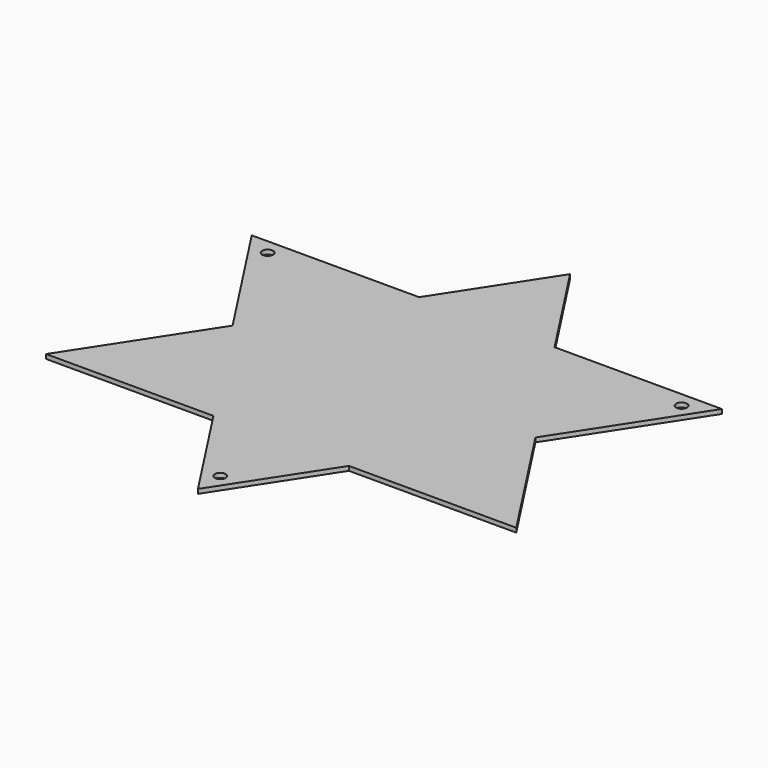
from build123d import *

# Parameters (mm, degrees)
F0_R     = 2.5
F1_DEPTH = 2


with BuildPart() as f1:
    # F0 (on Top) → F1 (new body)
    with BuildSketch(Plane.XY):
        Polygon((31.0892123008, 43.3596958699), (-31.0892123008, 43.3596958699), (-69.496261684, -15.6403041301), (-31.0892123008, -74.6403041301), (31.0892123008, -74.6403041301), (69.496261684, -15.6403041301), align=None)
        Polygon((-69.496261684, -15.6403041301), (-31.0892123008, 43.3596958699), (-107.9033110673, 43.3596958699), align=None)
        with Locations((-94.9940494668, 36.3596958699)):
            Circle(F0_R, mode=Mode.SUBTRACT)
        Polygon((107.9033110673, 43.3596958699), (31.0892123008, 43.3596958699), (69.496261684, -15.6403041301), align=None)
        with Locations((94.9940494668, 36.3596958699)):
            Circle(F0_R, mode=Mode.SUBTRACT)
        Polygon((31.0892123008, 43.3596958699), (0, 91.118207789), (-31.0892123008, 43.3596958699), align=None)
        Polygon((107.9033110673, -74.6403041301), (69.496261684, -15.6403041301), (31.0892123008, -74.6403041301), align=None)
        Polygon((31.0892123008, -74.6403041301), (-31.0892123008, -74.6403041301), (0, -122.3988160491), align=None)
        with Locations((0, -109.5679139971)):
            Circle(F0_R, mode=Mode.SUBTRACT)
        Polygon((-31.0892123008, -74.6403041301), (-69.496261684, -15.6403041301), (-107.9033110673, -74.6403041301), align=None)
    extrude(amount=F1_DEPTH)


solid = f1.part
